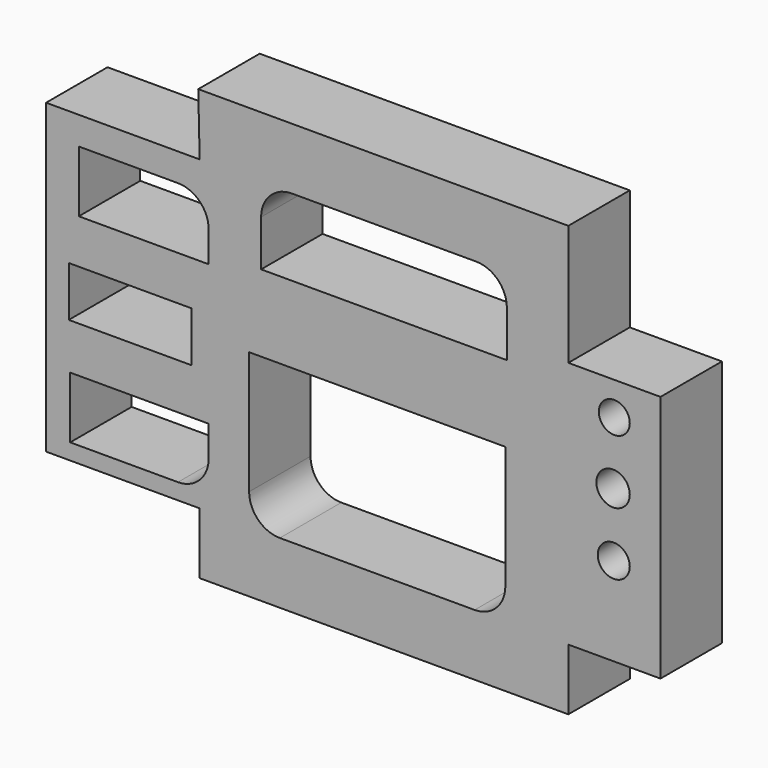
from build123d import *

# Parameters (mm, degrees)
F0_W     = 40
F0_H     = 16.307702
F0_R     = 5.209304
F0_R_2   = 5.433681
F0_R_3   = 5.039849
F1_DEPTH = 25


with BuildPart() as f1:
    # F0 (on Front) → F1 (new body)
    with BuildSketch(Plane.XZ):
        Polygon((0, 63.533334), (-120.466669, 63.533334), (-120, 43.533334), (-170, 43.533334), (-170, -56.466666), (-120, -56.466666), (-120, -76.466666), (0, -76.466666), (0, -56.466666), (30, -56.466666), (30, 24.266668), (0, 24.266668), align=None)
        with BuildLine():
            Line((-162.145153, -51.252779), (-162.145153, -31.252779))
            Line((-162.145153, -31.252779), (-117.07479, -31.252779))
            Line((-117.07479, -31.252779), (-117.07479, -41.252779))
            ThreePointArc((-117.07479, -41.252779), (-120.003722, -48.323846), (-127.07479, -51.252779))
            Line((-127.07479, -51.252779), (-162.145153, -51.252779))
        make_face(mode=Mode.SUBTRACT)
        with Locations((-142.611082, -8.153851)):
            Rectangle(F0_W, F0_H, mode=Mode.SUBTRACT)
        with BuildLine():
            Line((-103.903353, -46.466666), (-103.903353, -6.466666))
            Line((-103.903353, -6.466666), (-20.501101, -6.466666))
            Line((-20.501101, -6.466666), (-20.501101, -46.466666))
            ThreePointArc((-20.501101, -46.466666), (-23.430034, -53.537733), (-30.501101, -56.466666))
            Line((-30.501101, -56.466666), (-93.903353, -56.466666))
            ThreePointArc((-93.903353, -56.466666), (-100.974421, -53.537733), (-103.903353, -46.466666))
        make_face(mode=Mode.SUBTRACT)
        with Locations((14.790696, -27.630781)):
            Circle(F0_R, mode=Mode.SUBTRACT)
        with Locations((14.566319, -6.989015)):
            Circle(F0_R_2, mode=Mode.SUBTRACT)
        with BuildLine():
            Line((-159.349546, 14.443966), (-159.349546, 34.443966))
            Line((-159.349546, 34.443966), (-127.07479, 34.443966))
            ThreePointArc((-127.07479, 34.443966), (-120.003722, 31.515033), (-117.07479, 24.443966))
            Line((-117.07479, 24.443966), (-117.07479, 14.443966))
            Line((-117.07479, 14.443966), (-159.349546, 14.443966))
        make_face(mode=Mode.SUBTRACT)
        with Locations((14.960151, 13.480727)):
            Circle(F0_R_3, mode=Mode.SUBTRACT)
        with BuildLine():
            Line((-20, 18.533334), (-100, 18.533334))
            Line((-100, 18.533334), (-100, 33.533334))
            ThreePointArc((-100, 33.533334), (-97.071068, 40.604402), (-90, 43.533334))
            Line((-90, 43.533334), (-30, 43.533334))
            ThreePointArc((-30, 43.533334), (-22.928932, 40.604402), (-20, 33.533334))
            Line((-20, 33.533334), (-20, 18.533334))
        make_face(mode=Mode.SUBTRACT)
    extrude(amount=F1_DEPTH)


solid = f1.part
